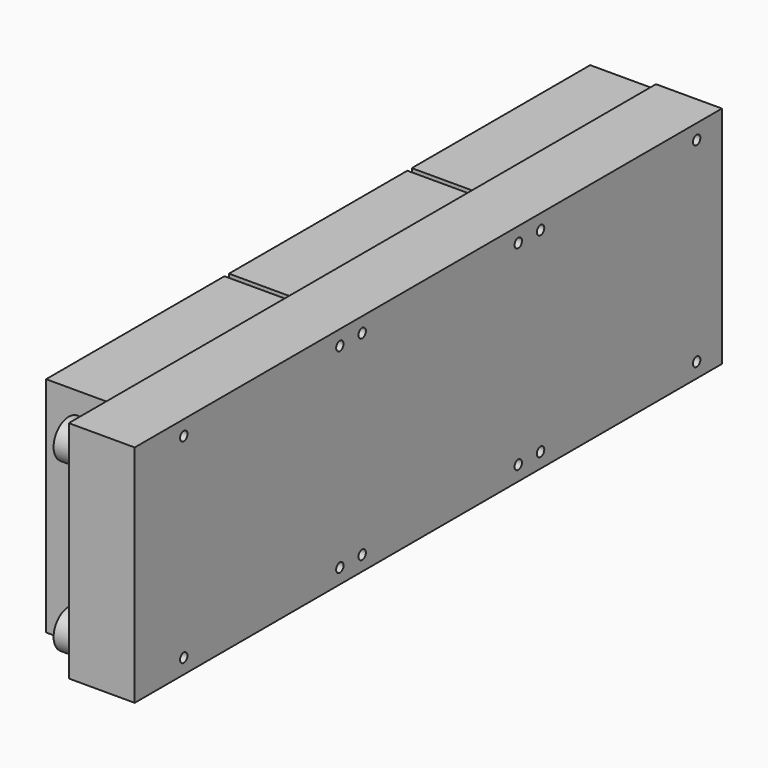
from build123d import *

# Parameters (mm, degrees)
F0_W     = 395
F0_H     = 121
F1_DEPTH = 35.5
F2_W     = 120
F2_H     = 120
F3_DEPTH = 33
F4_R     = 10.191795
F5_DEPTH = 10
F6_R     = 2.5
F7_DEPTH = 10


with BuildPart() as f1:
    # F0 (on Right) → F1 (new body)
    with BuildSketch(Plane.YZ):
        Rectangle(F0_W, F0_H)
    extrude(amount=F1_DEPTH)

    # F2 (on face) → F3 (join)
    with BuildSketch(Plane(origin=(0, 0, 0), x_dir=(0, -1, 0), z_dir=(-1, 0, 0))):
        with Locations((-134.5, 0)):
            Rectangle(F2_W, F2_H)
        with Locations((-11.5, 0)):
            Rectangle(F2_W, F2_H)
        with Locations((111.5, 0)):
            Rectangle(F2_W, F2_H)
    extrude(amount=F3_DEPTH)

    # F4 (on face) → F5 (join)
    with BuildSketch(Plane(origin=(0, 0, 0), x_dir=(0, -1, 0), z_dir=(-1, 0, 0))):
        with Locations((185, 45)):
            Circle(F4_R)
        with Locations((185, -45)):
            Circle(F4_R)
    extrude(amount=F5_DEPTH)

    # F6 (on face) → F7 (cut)
    with BuildSketch(Plane.YZ.offset(35.5)):
        with Locations((180.5, -52.5)):
            Circle(F6_R)
        with Locations((75.5, -52.5)):
            Circle(F6_R)
        with Locations((60.5, -52.5)):
            Circle(F6_R)
        with Locations((180.5, 52.5)):
            Circle(F6_R)
        with Locations((75.5, 52.5)):
            Circle(F6_R)
        with Locations((60.5, 52.5)):
            Circle(F6_R)
        with Locations((-44.5, 52.5)):
            Circle(F6_R)
        with Locations((-59.5, 52.5)):
            Circle(F6_R)
        with Locations((-164.5, 52.5)):
            Circle(F6_R)
        with Locations((-44.5, -52.5)):
            Circle(F6_R)
        with Locations((-164.5, -52.5)):
            Circle(F6_R)
        with Locations((-59.5, -52.5)):
            Circle(F6_R)
    extrude(amount=-F7_DEPTH, mode=Mode.SUBTRACT)


solid = f1.part
